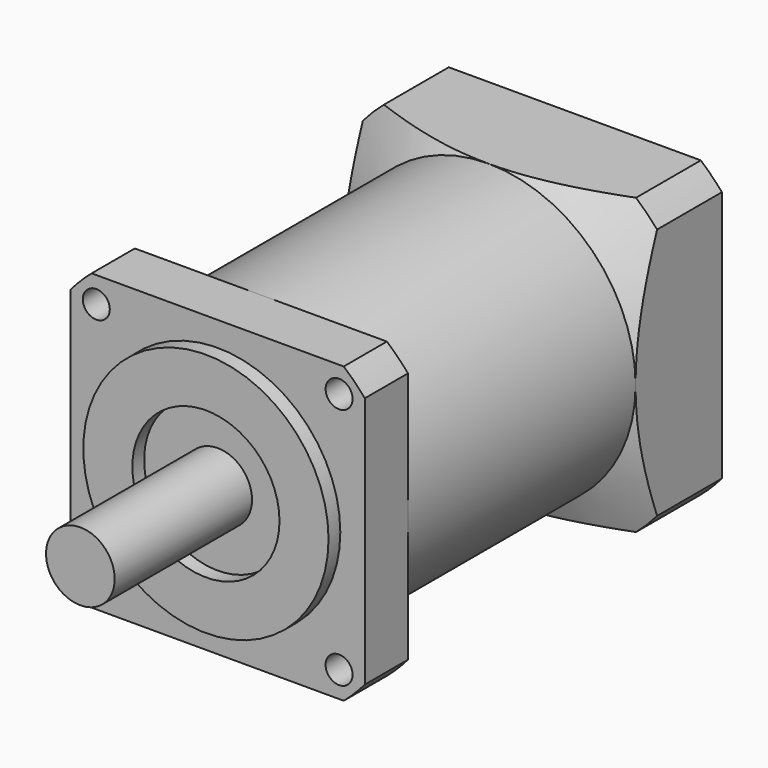
from build123d import *

# Parameters (mm, degrees)
PAD_DEPTH       = 11
SKETCH001_R     = 25
SKETCH001_R_2   = 15
PAD001_DEPTH    = 3
SKETCH002_R     = 7
PAD002_DEPTH    = 35
SKETCH003_R     = 30
PAD003_DEPTH    = 58
PAD004_DEPTH    = 22
SKETCH006_R     = 19.05
POCKET_DEPTH    = 4
SKETCH007_R     = 2.25
HOLE_DEPTH      = 6.648064
HOLE_TIPS_R     = 2.25
SKETCH008_R     = 4
POCKET001_DEPTH = 27
SKETCH009_R     = 2.75
HOLE001_DEPTH   = 23.347633
HOLE001_TIPS_R  = 2.75


with BuildPart() as part:
    # Sketch → Pad (new body)
    with BuildSketch(Plane.XZ):
        with BuildLine():
            Line((-25.69533, 30), (25.69533, 30))
            ThreePointArc((30, 25.69533), (27.930718, 27.930718), (25.69533, 30))
            Line((30, 25.69533), (30, -25.69533))
            ThreePointArc((25.69533, -30), (27.930718, -27.930718), (30, -25.69533))
            Line((25.69533, -30), (-25.69533, -30))
            ThreePointArc((-30, -25.69533), (-27.930718, -27.930718), (-25.69533, -30))
            Line((-30, -25.69533), (-30, 25.69533))
            ThreePointArc((-25.69533, 30), (-27.930718, 27.930718), (-30, 25.69533))
        make_face()
    extrude(amount=PAD_DEPTH)

    # Sketch001 (on Face10 of Pad) → Pad001 (join)
    with BuildSketch(Plane.XZ.offset(11)):
        Circle(SKETCH001_R)
        Circle(SKETCH001_R_2, mode=Mode.SUBTRACT)
    extrude(amount=PAD001_DEPTH)

    # Sketch002 (on Face14 of Pad001) → Pad002 (join)
    with BuildSketch(Plane.XZ.offset(11)):
        Circle(SKETCH002_R)
    extrude(amount=PAD002_DEPTH)

    # Sketch003 (on Face4 of Pad002) → Pad003 (join)
    with BuildSketch(Plane(origin=(0, 0, 0), x_dir=(1, 0, 0), z_dir=(0, 1, 0))):
        Circle(SKETCH003_R)
    extrude(amount=PAD003_DEPTH)

    # Sketch004 (on Face16 of Pad003) → Pad004 (join)
    with BuildSketch(Plane(origin=(0, 58, 0), x_dir=(1, 0, 0), z_dir=(0, 1, 0))):
        with BuildLine():
            ThreePointArc((-30, -25.69533), (-27.930718, -27.930718), (-25.69533, -30))
            Line((25.69533, -30), (-25.69533, -30))
            ThreePointArc((25.69533, -30), (27.930718, -27.930718), (30, -25.69533))
            Line((30, 25.69533), (30, -25.69533))
            ThreePointArc((30, 25.69533), (27.930718, 27.930718), (25.69533, 30))
            Line((-25.69533, 30), (25.69533, 30))
            ThreePointArc((-25.69533, 30), (-27.930718, 27.930718), (-30, 25.69533))
            Line((-30, -25.69533), (-30, 25.69533))
        make_face()
    extrude(amount=PAD004_DEPTH)

    # Sketch005 → Groove (revolve, cut)
    with BuildSketch(Plane.YZ):
        Polygon((80, 68.105118), (58, 30), (58, 68.105118), align=None)
    revolve(axis=Axis((0, 0, 0), (0, 1, 0)), mode=Mode.SUBTRACT)

    # Sketch006 (on Face30 of Groove) → Pocket (cut)
    with BuildSketch(Plane(origin=(0, 80, 0), x_dir=(1, 0, 0), z_dir=(0, 1, 0))):
        Circle(SKETCH006_R)
    extrude(amount=-POCKET_DEPTH, mode=Mode.SUBTRACT)

    # Sketch007 (on Face30 of Pocket) → Hole (cut)
    with BuildSketch(Plane(origin=(0, 80, 0), x_dir=(1, 0, 0), z_dir=(0, 1, 0))):
        with Locations((-23.55, -23.55)):
            Circle(SKETCH007_R)
        with Locations((23.55, -23.55)):
            Circle(SKETCH007_R)
        with Locations((-23.55, 23.55)):
            Circle(SKETCH007_R)
        with Locations((23.55, 23.55)):
            Circle(SKETCH007_R)
    extrude(amount=-HOLE_DEPTH, mode=Mode.SUBTRACT)

    # Hole tips → Hole tip 1 section 0
    with BuildSketch(Plane(origin=(0, 73.351936, 0), x_dir=(1, 0, 0), z_dir=(0, 1, 0)), mode=Mode.PRIVATE) as hole_tip_1_s0:
        with Locations((-23.55, -23.55)):
            Circle(HOLE_TIPS_R)
    loft([hole_tip_1_s0.sketch, Vertex(-23.55, 72, 23.55)], mode=Mode.SUBTRACT)

    # Hole tips → Hole tip 2 section 0
    with BuildSketch(Plane(origin=(0, 73.351936, 0), x_dir=(1, 0, 0), z_dir=(0, 1, 0)), mode=Mode.PRIVATE) as hole_tip_2_s0:
        with Locations((23.55, -23.55)):
            Circle(HOLE_TIPS_R)
    loft([hole_tip_2_s0.sketch, Vertex(23.55, 72, 23.55)], mode=Mode.SUBTRACT)

    # Hole tips → Hole tip 3 section 0
    with BuildSketch(Plane(origin=(0, 73.351936, 0), x_dir=(1, 0, 0), z_dir=(0, 1, 0)), mode=Mode.PRIVATE) as hole_tip_3_s0:
        with Locations((-23.55, 23.55)):
            Circle(HOLE_TIPS_R)
    loft([hole_tip_3_s0.sketch, Vertex(-23.55, 72, -23.55)], mode=Mode.SUBTRACT)

    # Hole tips → Hole tip 4 section 0
    with BuildSketch(Plane(origin=(0, 73.351936, 0), x_dir=(1, 0, 0), z_dir=(0, 1, 0)), mode=Mode.PRIVATE) as hole_tip_4_s0:
        with Locations((23.55, 23.55)):
            Circle(HOLE_TIPS_R)
    loft([hole_tip_4_s0.sketch, Vertex(23.55, 72, -23.55)], mode=Mode.SUBTRACT)

    # Sketch008 (on Face41 of Hole) → Pocket001 (cut)
    with BuildSketch(Plane(origin=(0, 76, 0), x_dir=(1, 0, 0), z_dir=(0, 1, 0))):
        Circle(SKETCH008_R)
    extrude(amount=-POCKET001_DEPTH, mode=Mode.SUBTRACT)

    # Sketch009 (on Face6 of Pocket001) → Hole001 (cut)
    with BuildSketch(Plane.XZ.offset(11)):
        with Locations((-24.748737, 24.748737)):
            Circle(SKETCH009_R)
        with Locations((24.748737, 24.748737)):
            Circle(SKETCH009_R)
        with Locations((24.748737, -24.748737)):
            Circle(SKETCH009_R)
        with Locations((-24.748737, -24.748737)):
            Circle(SKETCH009_R)
    extrude(amount=-HOLE001_DEPTH, mode=Mode.SUBTRACT)

    # Hole001 tips → Hole001 tip 1 section 0
    with BuildSketch(Plane.XZ.offset(-12.347633), mode=Mode.PRIVATE) as hole001_tip_1_s0:
        with Locations((-24.748737, 24.748737)):
            Circle(HOLE001_TIPS_R)
    loft([hole001_tip_1_s0.sketch, Vertex(-24.748737, 14, 24.748737)], mode=Mode.SUBTRACT)

    # Hole001 tips → Hole001 tip 2 section 0
    with BuildSketch(Plane.XZ.offset(-12.347633), mode=Mode.PRIVATE) as hole001_tip_2_s0:
        with Locations((24.748737, 24.748737)):
            Circle(HOLE001_TIPS_R)
    loft([hole001_tip_2_s0.sketch, Vertex(24.748737, 14, 24.748737)], mode=Mode.SUBTRACT)

    # Hole001 tips → Hole001 tip 3 section 0
    with BuildSketch(Plane.XZ.offset(-12.347633), mode=Mode.PRIVATE) as hole001_tip_3_s0:
        with Locations((24.748737, -24.748737)):
            Circle(HOLE001_TIPS_R)
    loft([hole001_tip_3_s0.sketch, Vertex(24.748737, 14, -24.748737)], mode=Mode.SUBTRACT)

    # Hole001 tips → Hole001 tip 4 section 0
    with BuildSketch(Plane.XZ.offset(-12.347633), mode=Mode.PRIVATE) as hole001_tip_4_s0:
        with Locations((-24.748737, -24.748737)):
            Circle(HOLE001_TIPS_R)
    loft([hole001_tip_4_s0.sketch, Vertex(-24.748737, 14, -24.748737)], mode=Mode.SUBTRACT)


solid = part.part
